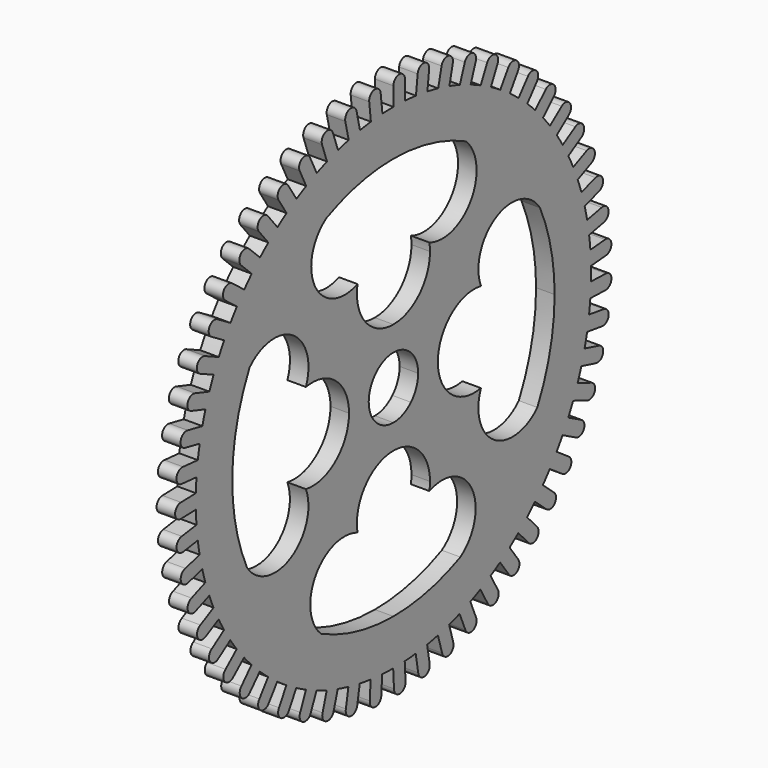
from build123d import *

# Parameters (mm, degrees)
F1_DEPTH = 3.81


with BuildPart() as f1:
    # F0 (on Right) → F1 (new body)
    with BuildSketch(Plane.YZ):
        with BuildLine():
            ThreePointArc((-2.476966, 8.310937), (-0.046927, 7.827572), (2.013162, 6.451065))
            Line((2.013162, 6.451065), (33.444058, 37.881962))
            ThreePointArc((33.444058, 37.881962), (32.69232, 38.618287), (31.925492, 39.338884))
            ThreePointArc((31.925492, 39.338884), (30.817036, 40.329537), (29.680066, 41.287331))
            ThreePointArc((29.680066, 41.287331), (28.572319, 42.167677), (27.440483, 43.016829))
            ThreePointArc((27.440483, 43.016829), (26.226326, 43.87467), (24.987587, 44.696617))
            ThreePointArc((24.987587, 44.696617), (23.786708, 45.44495), (22.565454, 46.159548))
            ThreePointArc((22.565454, 46.159548), (21.261424, 46.873394), (19.937065, 47.548777))
            ThreePointArc((19.937065, 47.548777), (18.658711, 48.155343), (17.363959, 48.72607))
            ThreePointArc((17.363959, 48.72607), (15.987057, 49.286616), (14.594343, 49.806631))
            ThreePointArc((14.594343, 49.806631), (13.255177, 50.263522), (11.903807, 50.682938))
            ThreePointArc((11.903807, 50.682938), (10.471983, 51.082874), (9.029069, 51.440743))
            ThreePointArc((9.029069, 51.440743), (7.646551, 51.742002), (6.25618, 52.00464))
            ThreePointArc((6.25618, 52.00464), (4.788099, 52.238754), (3.313797, 52.429809))
            ThreePointArc((3.313797, 52.429809), (1.90595, 52.57151), (0.494702, 52.673945))
            ThreePointArc((0.494702, 52.673945), (-0.990496, 52.739185), (-2.476966, 52.760937))
            Line((-2.476966, 52.760937), (-2.476966, 43.382824))
            ThreePointArc((-2.476966, 43.382824), (7.105622, 42.259159), (16.168311, 38.949129))
            ThreePointArc((16.168311, 38.949129), (17.479828, 27.801083), (6.765346, 24.454612))
            ThreePointArc((6.765346, 24.454612), (6.878725, 23.6185), (6.91662, 22.775587))
            ThreePointArc((6.91662, 22.775587), (4.165302, 16.133318), (-2.476966, 13.382))
            Line((-2.476966, 13.382), (-2.476966, 8.310937))
        make_face()
        with BuildLine():
            Line((38.94492, 1.960937), (48.323034, 1.960937))
            ThreePointArc((48.323034, 1.960937), (48.318353, 2.6505), (48.304313, 3.339935))
            ThreePointArc((48.304313, 3.339935), (48.242217, 4.825268), (48.136685, 6.308148))
            ThreePointArc((48.136685, 6.308148), (47.995978, 7.716094), (47.816113, 9.119576))
            ThreePointArc((47.816113, 9.119576), (47.585107, 10.588149), (47.311228, 12.049333))
            ThreePointArc((47.311228, 12.049333), (47.010944, 13.432063), (46.672266, 14.805893))
            ThreePointArc((46.672266, 14.805893), (46.275361, 16.238561), (45.836705, 17.659001))
            ThreePointArc((45.836705, 17.659001), (45.380759, 18.998488), (44.887684, 20.324757))
            ThreePointArc((44.887684, 20.324757), (44.330054, 21.702842), (43.732339, 23.06402))
            ThreePointArc((43.732339, 23.06402), (43.126675, 24.342802), (42.485631, 25.60422))
            ThreePointArc((42.485631, 25.60422), (41.774546, 26.909757), (41.025564, 28.193928))
            ThreePointArc((41.025564, 28.193928), (40.278078, 29.395335), (39.497422, 30.575457))
            ThreePointArc((39.497422, 30.575457), (38.642152, 31.791427), (37.751668, 32.98185))
            ThreePointArc((37.751668, 32.98185), (36.872104, 34.090218), (35.962012, 35.173659))
            ThreePointArc((35.962012, 35.173659), (34.973707, 36.28421), (33.953329, 37.365366))
            ThreePointArc((33.953329, 37.365366), (33.699616, 37.624573), (33.444058, 37.881962))
            Line((33.444058, 37.881962), (2.013162, 6.451065))
            ThreePointArc((2.013162, 6.451065), (3.389669, 4.390977), (3.873034, 1.960937))
            Line((3.873034, 1.960937), (8.944096, 1.960937))
            ThreePointArc((8.944096, 1.960937), (12.31824, 9.17244), (20.016708, 11.20325))
            ThreePointArc((20.016708, 11.20325), (23.983712, 22.102174), (35.20375, 19.163737))
            ThreePointArc((35.20375, 19.163737), (37.998823, 10.76339), (38.94492, 1.960937))
        make_face()
        with BuildLine():
            ThreePointArc((48.302317, 0.51029), (48.317854, 1.23554), (48.323034, 1.960937))
            Line((48.323034, 1.960937), (38.94492, 1.960937))
            ThreePointArc((38.94492, 1.960937), (37.821256, -7.621652), (34.511225, -16.684341))
            ThreePointArc((34.511225, -16.684341), (23.36318, -17.995857), (20.016708, -7.281375))
            ThreePointArc((20.016708, -7.281375), (12.31824, -5.250565), (8.944096, 1.960937))
            Line((8.944096, 1.960937), (3.873034, 1.960937))
            ThreePointArc((3.873034, 1.960937), (3.389669, -0.469103), (2.013162, -2.529191))
            Line((2.013162, -2.529191), (33.444058, -33.960087))
            ThreePointArc((33.444058, -33.960087), (33.674447, -33.728211), (33.903338, -33.494858))
            ThreePointArc((33.903338, -33.494858), (34.925241, -32.415143), (35.915112, -31.305988))
            ThreePointArc((35.915112, -31.305988), (36.826731, -30.223832), (37.707858, -29.116705))
            ThreePointArc((37.707858, -29.116705), (38.600021, -27.92754), (39.457006, -26.712778))
            ThreePointArc((39.457006, -26.712778), (40.239327, -25.533759), (40.988507, -24.333408))
            ThreePointArc((40.988507, -24.333408), (41.7393, -23.050295), (42.452226, -21.745763))
            ThreePointArc((42.452226, -21.745763), (43.09505, -20.485251), (43.702517, -19.207324))
            ThreePointArc((43.702517, -19.207324), (44.302153, -17.846991), (44.861726, -16.469694))
            ThreePointArc((44.861726, -16.469694), (45.356672, -15.144122), (45.814507, -13.805279))
            ThreePointArc((45.814507, -13.805279), (46.255168, -12.38546), (46.654094, -10.953354))
            ThreePointArc((46.654094, -10.953354), (46.994709, -9.580003), (47.296944, -8.197698))
            ThreePointArc((47.296944, -8.197698), (47.572885, -6.736902), (47.805963, -5.268657))
            ThreePointArc((47.805963, -5.268657), (47.987808, -3.86543), (48.130501, -2.457683))
            ThreePointArc((48.130501, -2.457683), (48.238125, -0.974954), (48.302317, 0.51029))
        make_face()
        with BuildLine():
            Line((33.444058, -33.960087), (2.013162, -2.529191))
            ThreePointArc((2.013162, -2.529191), (-0.046927, -3.905698), (-2.476966, -4.389063))
            Line((-2.476966, -4.389063), (-2.476966, -9.460126))
            ThreePointArc((-2.476966, -9.460126), (4.165302, -12.211444), (6.91662, -18.853712))
            ThreePointArc((6.91662, -18.853712), (6.878725, -19.696625), (6.765346, -20.532738))
            ThreePointArc((6.765346, -20.532738), (17.664271, -24.499741), (14.725833, -35.719779))
            ThreePointArc((14.725833, -35.719779), (6.325486, -38.514852), (-2.476966, -39.46095))
            Line((-2.476966, -39.46095), (-2.476966, -48.839063))
            ThreePointArc((-2.476966, -48.839063), (-1.026319, -48.818346), (0.423145, -48.756213))
            ThreePointArc((0.423145, -48.756213), (1.834536, -48.655769), (3.242581, -48.516055))
            ThreePointArc((3.242581, -48.516055), (4.717152, -48.32708), (6.185561, -48.095038))
            ThreePointArc((6.185561, -48.095038), (7.576302, -47.834362), (8.959243, -47.535054))
            ThreePointArc((8.959243, -47.535054), (10.40266, -47.179222), (11.835047, -46.781306))
            ThreePointArc((11.835047, -46.781306), (13.187008, -46.363796), (14.526817, -45.908796))
            ThreePointArc((14.526817, -45.908796), (15.920264, -45.390746), (17.297955, -44.832144))
            ThreePointArc((17.297955, -44.832144), (18.593511, -44.263245), (19.87272, -43.658483))
            ThreePointArc((19.87272, -43.658483), (21.198031, -42.984969), (22.503066, -42.272963))
            ThreePointArc((22.503066, -42.272963), (23.725328, -41.56009), (24.927261, -40.813451))
            ThreePointArc((24.927261, -40.813451), (26.167158, -39.993254), (27.382524, -39.137126))
            ThreePointArc((27.382524, -39.137126), (28.515557, -38.289572), (29.624546, -37.41079))
            ThreePointArc((29.624546, -37.41079), (30.762866, -36.454601), (31.872718, -35.465513))
            ThreePointArc((31.872718, -35.465513), (32.66645, -34.721215), (33.444058, -33.960087))
        make_face()
        with BuildLine():
            Line((-2.476966, -9.460126), (-2.476966, -4.389063))
            ThreePointArc((-2.476966, -4.389063), (-4.907006, -3.905698), (-6.967095, -2.529191))
            Line((-6.967095, -2.529191), (-38.397991, -33.960087))
            ThreePointArc((-38.397991, -33.960087), (-37.620383, -34.721215), (-36.826651, -35.465513))
            ThreePointArc((-36.826651, -35.465513), (-35.770969, -36.407662), (-34.689455, -37.320045))
            ThreePointArc((-34.689455, -37.320045), (-33.526252, -38.245802), (-32.336457, -39.137126))
            ThreePointArc((-32.336457, -39.137126), (-31.180259, -39.952796), (-30.001791, -40.735948))
            ThreePointArc((-30.001791, -40.735948), (-28.740641, -41.523076), (-27.456999, -42.272963))
            ThreePointArc((-27.456999, -42.272963), (-26.215357, -42.95152), (-24.955299, -43.595232))
            ThreePointArc((-24.955299, -43.595232), (-23.612644, -44.233469), (-22.251888, -44.832144))
            ThreePointArc((-22.251888, -44.832144), (-20.94099, -45.364741), (-19.615767, -45.860622))
            ThreePointArc((-19.615767, -45.860622), (-18.20911, -46.341647), (-16.78898, -46.781306))
            ThreePointArc((-16.78898, -46.781306), (-15.425916, -47.161), (-14.052805, -47.502584))
            ThreePointArc((-14.052805, -47.502584), (-12.600484, -47.820127), (-11.139494, -48.095038))
            ThreePointArc((-11.139494, -48.095038), (-9.742032, -48.316879), (-8.338934, -48.499714))
            ThreePointArc((-8.338934, -48.499714), (-6.859883, -48.649635), (-5.377078, -48.756213))
            ThreePointArc((-5.377078, -48.756213), (-3.963437, -48.81731), (-2.548644, -48.839012))
            ThreePointArc((-2.548644, -48.839012), (-2.512805, -48.83905), (-2.476966, -48.839063))
            Line((-2.476966, -48.839063), (-2.476966, -39.46095))
            ThreePointArc((-2.476966, -39.46095), (-12.059555, -38.337285), (-21.122244, -35.027254))
            ThreePointArc((-21.122244, -35.027254), (-22.433761, -23.879209), (-11.719279, -20.532738))
            ThreePointArc((-11.719279, -20.532738), (-9.688469, -12.834269), (-2.476966, -9.460126))
        make_face()
        with BuildLine():
            ThreePointArc((-6.967095, -2.529191), (-8.343602, -0.469103), (-8.826966, 1.960937))
            Line((-8.826966, 1.960937), (-13.898029, 1.960937))
            ThreePointArc((-13.898029, 1.960937), (-17.272173, -5.250565), (-24.970641, -7.281375))
            ThreePointArc((-24.970641, -7.281375), (-28.937645, -18.1803), (-40.157683, -15.241862))
            ThreePointArc((-40.157683, -15.241862), (-42.952756, -6.841515), (-43.898853, 1.960937))
            Line((-43.898853, 1.960937), (-53.276966, 1.960937))
            ThreePointArc((-53.276966, 1.960937), (-53.271787, 1.23554), (-53.25625, 0.51029))
            ThreePointArc((-53.25625, 0.51029), (-53.19615, -0.903393), (-53.096702, -2.314855))
            ThreePointArc((-53.096702, -2.314855), (-52.949911, -3.79422), (-52.759896, -5.268657))
            ThreePointArc((-52.759896, -5.268657), (-52.53904, -6.666274), (-52.279345, -8.057199))
            ThreePointArc((-52.279345, -8.057199), (-51.964877, -9.510188), (-51.608027, -10.953354))
            ThreePointArc((-51.608027, -10.953354), (-51.229294, -12.316686), (-50.812739, -13.668941))
            ThreePointArc((-50.812739, -13.668941), (-50.334692, -15.076613), (-49.815659, -16.469694))
            ThreePointArc((-49.815659, -16.469694), (-49.283987, -17.780967), (-48.716002, -19.076925))
            ThreePointArc((-48.716002, -19.076925), (-48.080608, -20.420928), (-47.406159, -21.745763))
            ThreePointArc((-47.406159, -21.745763), (-46.728479, -22.987883), (-46.016468, -24.210647))
            ThreePointArc((-46.016468, -24.210647), (-45.232011, -25.47346), (-44.410939, -26.712778))
            ThreePointArc((-44.410939, -26.712778), (-43.596085, -27.869552), (-42.74933, -29.003183))
            ThreePointArc((-42.74933, -29.003183), (-41.826037, -30.168343), (-40.869045, -31.305988))
            ThreePointArc((-40.869045, -31.305988), (-39.92764, -32.362335), (-38.95718, -33.392054))
            ThreePointArc((-38.95718, -33.392054), (-38.6787, -33.677167), (-38.397991, -33.960087))
            Line((-38.397991, -33.960087), (-6.967095, -2.529191))
        make_face()
        with BuildLine():
            ThreePointArc((-8.826966, 1.960937), (-8.343602, 4.390977), (-6.967095, 6.451065))
            Line((-6.967095, 6.451065), (-38.397991, 37.881962))
            ThreePointArc((-38.397991, 37.881962), (-38.653549, 37.624573), (-38.907262, 37.365366))
            ThreePointArc((-38.907262, 37.365366), (-39.879174, 36.337017), (-40.822068, 35.281999))
            ThreePointArc((-40.822068, 35.281999), (-41.780664, 34.145706), (-42.705601, 32.98185))
            ThreePointArc((-42.705601, 32.98185), (-43.553954, 31.849415), (-44.370439, 30.693792))
            ThreePointArc((-44.370439, 30.693792), (-45.19326, 29.455633), (-45.979497, 28.193928))
            ThreePointArc((-45.979497, 28.193928), (-46.693233, 26.97217), (-47.372665, 25.731007))
            ThreePointArc((-47.372665, 25.731007), (-48.048983, 24.407125), (-48.686272, 23.06402))
            ThreePointArc((-48.686272, 23.06402), (-49.256086, 21.768866), (-49.789607, 20.458344))
            ThreePointArc((-49.789607, 20.458344), (-50.310605, 19.065997), (-50.790638, 17.659001))
            ThreePointArc((-50.790638, 17.659001), (-51.209101, 16.307334), (-51.589756, 14.944538))
            ThreePointArc((-51.589756, 14.944538), (-51.948642, 13.501877), (-52.265161, 12.049333))
            ThreePointArc((-52.265161, 12.049333), (-52.526818, 10.658776), (-52.749645, 9.261471))
            ThreePointArc((-52.749645, 9.261471), (-52.941741, 7.787304), (-53.090618, 6.308148))
            ThreePointArc((-53.090618, 6.308148), (-53.192058, 4.896828), (-53.254153, 3.483231))
            ThreePointArc((-53.254153, 3.483231), (-53.271263, 2.72217), (-53.276966, 1.960937))
            Line((-53.276966, 1.960937), (-43.898853, 1.960937))
            ThreePointArc((-43.898853, 1.960937), (-42.775189, 11.543526), (-39.465158, 20.606215))
            ThreePointArc((-39.465158, 20.606215), (-28.317113, 21.917732), (-24.970641, 11.20325))
            ThreePointArc((-24.970641, 11.20325), (-17.272173, 9.17244), (-13.898029, 1.960937))
            Line((-13.898029, 1.960937), (-8.826966, 1.960937))
        make_face()
        with BuildLine():
            ThreePointArc((-6.967095, 6.451065), (-4.907006, 7.827572), (-2.476966, 8.310937))
            Line((-2.476966, 8.310937), (-2.476966, 13.382))
            ThreePointArc((-2.476966, 13.382), (-9.688469, 16.756143), (-11.719279, 24.454612))
            ThreePointArc((-11.719279, 24.454612), (-22.618204, 28.421615), (-19.679766, 39.641654))
            ThreePointArc((-19.679766, 39.641654), (-11.279419, 42.436727), (-2.476966, 43.382824))
            Line((-2.476966, 43.382824), (-2.476966, 52.760937))
            ThreePointArc((-2.476966, 52.760937), (-3.89179, 52.741231), (-5.305515, 52.682129))
            ThreePointArc((-5.305515, 52.682129), (-6.788469, 52.577643), (-8.26773, 52.429809))
            ThreePointArc((-8.26773, 52.429809), (-9.671085, 52.248954), (-11.068858, 52.029085))
            ThreePointArc((-11.068858, 52.029085), (-12.530235, 51.756236), (-13.983002, 51.440743))
            ThreePointArc((-13.983002, 51.440743), (-15.356593, 51.101096), (-16.720192, 50.723326))
            ThreePointArc((-16.720192, 50.723326), (-18.140941, 50.285671), (-19.548276, 49.806631))
            ThreePointArc((-19.548276, 49.806631), (-20.874197, 49.312621), (-22.185845, 48.781874))
            ThreePointArc((-22.185845, 48.781874), (-23.547444, 48.185119), (-24.890998, 47.548777))
            ThreePointArc((-24.890998, 47.548777), (-26.151964, 46.906844), (-27.394562, 46.23004))
            ThreePointArc((-27.394562, 46.23004), (-28.679261, 45.481964), (-29.94152, 44.696617))
            ThreePointArc((-29.94152, 44.696617), (-31.121091, 43.915128), (-32.27844, 43.10109))
            ThreePointArc((-32.27844, 43.10109), (-33.46949, 42.211446), (-34.633999, 41.287331))
            ThreePointArc((-34.633999, 41.287331), (-35.716799, 40.376475), (-36.77381, 39.435816))
            ThreePointArc((-36.77381, 39.435816), (-37.594496, 38.667873), (-38.397991, 37.881962))
            Line((-38.397991, 37.881962), (-6.967095, 6.451065))
        make_face()
        with BuildLine():
            ThreePointArc((-42.705601, 32.98185), (-41.780664, 34.145706), (-40.822068, 35.281999))
            Line((-40.822068, 35.281999), (-43.839216, 37.608568))
            ThreePointArc((-43.839216, 37.608568), (-45.965217, 37.428232), (-45.722748, 35.308418))
            Line((-45.722748, 35.308418), (-42.705601, 32.98185))
        make_face()
        with BuildLine():
            ThreePointArc((-45.979497, 28.193928), (-45.19326, 29.455633), (-44.370439, 30.693792))
            Line((-44.370439, 30.693792), (-47.633129, 32.661266))
            ThreePointArc((-47.633129, 32.661266), (-49.724716, 32.239759), (-49.242187, 30.161403))
            Line((-49.242187, 30.161403), (-45.979497, 28.193928))
        make_face()
        with BuildLine():
            ThreePointArc((-48.686272, 23.06402), (-48.048983, 24.407125), (-47.372665, 25.731007))
            Line((-47.372665, 25.731007), (-50.838363, 27.313739))
            ThreePointArc((-50.838363, 27.313739), (-52.868268, 26.656557), (-52.15197, 24.646751))
            Line((-52.15197, 24.646751), (-48.686272, 23.06402))
        make_face()
        with BuildLine():
            ThreePointArc((-50.790638, 17.659001), (-50.310605, 19.065997), (-49.789607, 20.458344))
            Line((-49.789607, 20.458344), (-53.413132, 21.635698))
            ThreePointArc((-53.413132, 21.635698), (-55.354892, 20.751409), (-54.414163, 18.836355))
            Line((-54.414163, 18.836355), (-50.790638, 17.659001))
        make_face()
        with BuildLine():
            Line((-55.999275, 12.805963), (-52.265161, 12.049333))
            ThreePointArc((-52.265161, 12.049333), (-51.948642, 13.501877), (-51.589756, 14.944538))
            Line((-51.589756, 14.944538), (-55.323871, 15.701168))
            ThreePointArc((-55.323871, 15.701168), (-57.152172, 14.601298), (-55.999275, 12.805963))
        make_face()
        with BuildLine():
            Line((-56.886642, 6.634188), (-53.090618, 6.308148))
            ThreePointArc((-53.090618, 6.308148), (-52.941741, 7.787304), (-52.749645, 9.261471))
            Line((-52.749645, 9.261471), (-56.545669, 9.587512))
            ThreePointArc((-56.545669, 9.587512), (-58.236678, 8.286401), (-56.886642, 6.634188))
        make_face()
        with BuildLine():
            ThreePointArc((-53.25625, 0.51029), (-53.271787, 1.23554), (-53.276966, 1.960937))
            ThreePointArc((-53.276966, 1.960937), (-53.271263, 2.72217), (-53.254153, 3.483231))
            Line((-53.254153, 3.483231), (-57.062599, 3.374433))
            ThreePointArc((-57.062599, 3.374433), (-58.594269, 1.889042), (-57.064696, 0.401491))
            Line((-57.064696, 0.401491), (-53.25625, 0.51029))
        make_face()
        with BuildLine():
            ThreePointArc((-52.759896, -5.268657), (-52.949911, -3.79422), (-53.096702, -2.314855))
            Line((-53.096702, -2.314855), (-56.867922, -2.857074))
            ThreePointArc((-56.867922, -2.857074), (-58.220287, -4.50738), (-56.531115, -5.810876))
            Line((-56.531115, -5.810876), (-52.759896, -5.268657))
        make_face()
        with BuildLine():
            ThreePointArc((-51.608027, -10.953354), (-51.964877, -9.510188), (-52.279345, -8.057199))
            Line((-52.279345, -8.057199), (-55.964175, -9.025771))
            ThreePointArc((-55.964175, -9.025771), (-57.119604, -10.819478), (-55.292856, -11.921926))
            Line((-55.292856, -11.921926), (-51.608027, -10.953354))
        make_face()
        with BuildLine():
            Line((-53.366061, -17.851992), (-49.815659, -16.469694))
            ThreePointArc((-49.815659, -16.469694), (-50.334692, -15.076613), (-50.812739, -13.668941))
            Line((-50.812739, -13.668941), (-54.363141, -15.051239))
            ThreePointArc((-54.363141, -15.051239), (-55.306572, -16.964963), (-53.366061, -17.851992))
        make_face()
        with BuildLine():
            Line((-50.775849, -23.523765), (-47.406159, -21.745763))
            ThreePointArc((-47.406159, -21.745763), (-48.080608, -20.420928), (-48.716002, -19.076925))
            Line((-48.716002, -19.076925), (-52.085691, -20.854927))
            ThreePointArc((-52.085691, -20.854927), (-52.804824, -22.86372), (-50.775849, -23.523765))
        make_face()
        with BuildLine():
            Line((-47.555987, -28.863307), (-44.410939, -26.712778))
            ThreePointArc((-44.410939, -26.712778), (-45.232011, -25.47346), (-46.016468, -24.210647))
            Line((-46.016468, -24.210647), (-49.161516, -26.361176))
            ThreePointArc((-49.161516, -26.361176), (-49.646976, -28.43885), (-47.555987, -28.863307))
        make_face()
        with BuildLine():
            Line((-43.748451, -33.801007), (-40.869045, -31.305988))
            ThreePointArc((-40.869045, -31.305988), (-41.826037, -30.168343), (-42.74933, -29.003183))
            Line((-42.74933, -29.003183), (-45.628736, -31.498202))
            ThreePointArc((-45.628736, -31.498202), (-45.874195, -33.617672), (-43.748451, -33.801007))
        make_face()
        with BuildLine():
            ThreePointArc((-36.826651, -35.465513), (-37.620383, -34.721215), (-38.397991, -33.960087))
            ThreePointArc((-38.397991, -33.960087), (-38.6787, -33.677167), (-38.95718, -33.392054))
            Line((-38.95718, -33.392054), (-41.533407, -36.199038))
            ThreePointArc((-41.533407, -36.199038), (-41.535665, -38.332672), (-39.402878, -38.272496))
            Line((-39.402878, -38.272496), (-36.826651, -35.465513))
        make_face()
        with BuildLine():
            ThreePointArc((-32.336457, -39.137126), (-33.526252, -38.245802), (-34.689455, -37.320045))
            Line((-34.689455, -37.320045), (-36.928917, -40.4024))
            ThreePointArc((-36.928917, -40.4024), (-36.687944, -42.522384), (-34.575919, -42.219481))
            Line((-34.575919, -42.219481), (-32.336457, -39.137126))
        make_face()
        with BuildLine():
            ThreePointArc((-27.456999, -42.272963), (-28.740641, -41.523076), (-30.001791, -40.735948))
            Line((-30.001791, -40.735948), (-31.875294, -44.053491))
            ThreePointArc((-31.875294, -44.053491), (-31.394232, -46.132187), (-29.330502, -45.590506))
            Line((-29.330502, -45.590506), (-27.456999, -42.272963))
        make_face()
        with BuildLine():
            ThreePointArc((-22.251888, -44.832144), (-23.612644, -44.233469), (-24.955299, -43.595232))
            Line((-24.955299, -43.595232), (-26.438418, -47.104713))
            ThreePointArc((-26.438418, -47.104713), (-25.723538, -49.115023), (-23.735007, -48.341625))
            Line((-23.735007, -48.341625), (-22.251888, -44.832144))
        make_face()
        with BuildLine():
            ThreePointArc((-16.78898, -46.781306), (-18.20911, -46.341647), (-19.615767, -45.860622))
            Line((-19.615767, -45.860622), (-20.689168, -49.51629))
            ThreePointArc((-20.689168, -49.51629), (-19.74979, -51.432006), (-17.862381, -50.436974))
            Line((-17.862381, -50.436974), (-16.78898, -46.781306))
        make_face()
        with BuildLine():
            Line((-11.789183, -51.849236), (-11.139494, -48.095038))
            ThreePointArc((-11.139494, -48.095038), (-12.600484, -47.820127), (-14.052805, -47.502584))
            Line((-14.052805, -47.502584), (-14.702495, -51.256782))
            ThreePointArc((-14.702495, -51.256782), (-13.550864, -53.052931), (-11.789183, -51.849236))
        make_face()
        with BuildLine():
            Line((-5.594586, -52.56), (-5.377078, -48.756213))
            ThreePointArc((-5.377078, -48.756213), (-6.859883, -48.649635), (-8.338934, -48.499714))
            Line((-8.338934, -48.499714), (-8.556443, -52.3035))
            ThreePointArc((-8.556443, -52.3035), (-7.207573, -53.956665), (-5.594586, -52.56))
        make_face()
        with BuildLine():
            ThreePointArc((0.423145, -48.756213), (-1.026319, -48.818346), (-2.476966, -48.839063))
            ThreePointArc((-2.476966, -48.839063), (-2.512805, -48.83905), (-2.548644, -48.839012))
            Line((-2.548644, -48.839012), (-2.331135, -52.642798))
            ThreePointArc((-2.331135, -52.642798), (-0.802612, -54.131428), (0.640653, -52.56))
            Line((0.640653, -52.56), (0.423145, -48.756213))
        make_face()
        with BuildLine():
            ThreePointArc((6.185561, -48.095038), (4.717152, -48.32708), (3.242581, -48.516055))
            Line((3.242581, -48.516055), (3.892271, -52.270253))
            ThreePointArc((3.892271, -52.270253), (5.580522, -53.574941), (6.83525, -51.849236))
            Line((6.83525, -51.849236), (6.185561, -48.095038))
        make_face()
        with BuildLine():
            ThreePointArc((11.835047, -46.781306), (10.40266, -47.179222), (8.959243, -47.535054))
            Line((8.959243, -47.535054), (10.032644, -51.190722))
            ThreePointArc((10.032644, -51.190722), (11.858614, -52.294459), (12.908448, -50.436974))
            Line((12.908448, -50.436974), (11.835047, -46.781306))
        make_face()
        with BuildLine():
            Line((18.781074, -48.341625), (17.297955, -44.832144))
            ThreePointArc((17.297955, -44.832144), (15.920264, -45.390746), (14.526817, -45.908796))
            Line((14.526817, -45.908796), (16.009936, -49.418277))
            ThreePointArc((16.009936, -49.418277), (17.94982, -50.306675), (18.781074, -48.341625))
        make_face()
        with BuildLine():
            Line((24.376569, -45.590506), (22.503066, -42.272963))
            ThreePointArc((22.503066, -42.272963), (21.198031, -42.984969), (19.87272, -43.658483))
            Line((19.87272, -43.658483), (21.746223, -46.976026))
            ThreePointArc((21.746223, -46.976026), (23.774732, -47.637502), (24.376569, -45.590506))
        make_face()
        with BuildLine():
            Line((29.621986, -42.219481), (27.382524, -39.137126))
            ThreePointArc((27.382524, -39.137126), (26.167158, -39.993254), (24.927261, -40.813451))
            Line((24.927261, -40.813451), (27.166723, -43.895806))
            ThreePointArc((27.166723, -43.895806), (29.257412, -44.321738), (29.621986, -42.219481))
        make_face()
        with BuildLine():
            Line((34.448945, -38.272496), (31.872718, -35.465513))
            ThreePointArc((31.872718, -35.465513), (30.762866, -36.454601), (29.624546, -37.41079))
            Line((29.624546, -37.41079), (32.200772, -40.217774))
            ThreePointArc((32.200772, -40.217774), (34.326387, -40.402609), (34.448945, -38.272496))
        make_face()
        with BuildLine():
            ThreePointArc((35.915112, -31.305988), (34.925241, -32.415143), (33.903338, -33.494858))
            Line((33.903338, -33.494858), (36.782744, -35.989877))
            ThreePointArc((36.782744, -35.989877), (38.915573, -35.931206), (38.794518, -33.801007))
            Line((38.794518, -33.801007), (35.915112, -31.305988))
        make_face()
        with BuildLine():
            ThreePointArc((39.457006, -26.712778), (38.600021, -27.92754), (37.707858, -29.116705))
            Line((37.707858, -29.116705), (40.852906, -31.267234))
            ThreePointArc((40.852906, -31.267234), (42.965144, -30.965821), (42.602054, -28.863307))
            Line((42.602054, -28.863307), (39.457006, -26.712778))
        make_face()
        with BuildLine():
            Line((45.821916, -23.523765), (42.452226, -21.745763))
            ThreePointArc((42.452226, -21.745763), (41.7393, -23.050295), (40.988507, -24.333408))
            Line((40.988507, -24.333408), (44.358196, -26.111411))
            ThreePointArc((44.358196, -26.111411), (46.422308, -25.571186), (45.821916, -23.523765))
        make_face()
        with BuildLine():
            Line((48.412128, -17.851992), (44.861726, -16.469694))
            ThreePointArc((44.861726, -16.469694), (44.302153, -17.846991), (43.702517, -19.207324))
            Line((43.702517, -19.207324), (47.252919, -20.589622))
            ThreePointArc((47.252919, -20.589622), (49.241995, -19.817627), (48.412128, -17.851992))
        make_face()
        with BuildLine():
            Line((50.338923, -11.921926), (46.654094, -10.953354))
            ThreePointArc((46.654094, -10.953354), (46.255168, -12.38546), (45.814507, -13.805279))
            Line((45.814507, -13.805279), (49.499336, -14.773851))
            ThreePointArc((49.499336, -14.773851), (51.387447, -13.780151), (50.338923, -11.921926))
        make_face()
        with BuildLine():
            Line((51.577182, -5.810876), (47.805963, -5.268657))
            ThreePointArc((47.805963, -5.268657), (47.572885, -6.736902), (47.296944, -8.197698))
            Line((47.296944, -8.197698), (51.068163, -8.739917))
            ThreePointArc((51.068163, -8.739917), (52.830693, -7.537466), (51.577182, -5.810876))
        make_face()
        with BuildLine():
            Line((52.110763, 0.401491), (48.302317, 0.51029))
            ThreePointArc((48.302317, 0.51029), (48.238125, -0.974954), (48.130501, -2.457683))
            Line((48.130501, -2.457683), (51.938948, -2.566482))
            ThreePointArc((51.938948, -2.566482), (53.552919, -1.170955), (52.110763, 0.401491))
        make_face()
        with BuildLine():
            ThreePointArc((48.136685, 6.308148), (48.242217, 4.825268), (48.304313, 3.339935))
            Line((48.304313, 3.339935), (52.100337, 3.665976))
            ThreePointArc((52.100337, 3.665976), (53.544711, 5.236386), (51.932709, 6.634188))
            Line((51.932709, 6.634188), (48.136685, 6.308148))
        make_face()
        with BuildLine():
            ThreePointArc((47.311228, 12.049333), (47.585107, 10.588149), (47.816113, 9.119576))
            Line((47.816113, 9.119576), (51.550228, 9.876206))
            ThreePointArc((51.550228, 9.876206), (52.806173, 11.601025), (51.045342, 12.805963))
            Line((51.045342, 12.805963), (47.311228, 12.049333))
        make_face()
        with BuildLine():
            ThreePointArc((45.836705, 17.659001), (46.275361, 16.238561), (46.672266, 14.805893))
            Line((46.672266, 14.805893), (50.295792, 15.983248))
            ThreePointArc((50.295792, 15.983248), (51.346936, 17.839992), (49.46023, 18.836355))
            Line((49.46023, 18.836355), (45.836705, 17.659001))
        make_face()
        with BuildLine():
            ThreePointArc((43.732339, 23.06402), (44.330054, 21.702842), (44.887684, 20.324757))
            Line((44.887684, 20.324757), (48.353382, 21.907488))
            ThreePointArc((48.353382, 21.907488), (49.186022, 23.87195), (47.198037, 24.646751))
            Line((47.198037, 24.646751), (43.732339, 23.06402))
        make_face()
        with BuildLine():
            ThreePointArc((41.025564, 28.193928), (41.774546, 26.909757), (42.485631, 25.60422))
            Line((42.485631, 25.60422), (45.748321, 27.571694))
            ThreePointArc((45.748321, 27.571694), (46.351602, 29.618265), (44.288254, 30.161403))
            Line((44.288254, 30.161403), (41.025564, 28.193928))
        make_face()
        with BuildLine():
            Line((40.768815, 35.308418), (37.751668, 32.98185))
            ThreePointArc((37.751668, 32.98185), (38.642152, 31.791427), (39.497422, 30.575457))
            Line((39.497422, 30.575457), (42.514569, 32.902025))
            ThreePointArc((42.514569, 32.902025), (42.880626, 35.004025), (40.768815, 35.308418))
        make_face()
        with BuildLine():
            Line((36.685601, 40.020698), (33.953329, 37.365366))
            ThreePointArc((33.953329, 37.365366), (34.973707, 36.28421), (35.962012, 35.173659))
            Line((35.962012, 35.173659), (38.694284, 37.828992))
            ThreePointArc((38.694284, 37.828992), (38.818345, 39.959017), (36.685601, 40.020698))
        make_face()
        with BuildLine():
            ThreePointArc((29.680066, 41.287331), (30.817036, 40.329537), (31.925492, 39.338884))
            Line((31.925492, 39.338884), (34.337269, 42.288363))
            ThreePointArc((34.337269, 42.288363), (34.217717, 44.418647), (32.091844, 44.236811))
            Line((32.091844, 44.236811), (29.680066, 41.287331))
        make_face()
        with BuildLine():
            ThreePointArc((24.987587, 44.696617), (26.226326, 43.87467), (27.440483, 43.016829))
            Line((27.440483, 43.016829), (29.500324, 46.222005))
            ThreePointArc((29.500324, 46.222005), (29.138717, 48.324775), (27.047429, 47.901793))
            Line((27.047429, 47.901793), (24.987587, 44.696617))
        make_face()
        with BuildLine():
            ThreePointArc((19.937065, 47.548777), (21.261424, 46.873394), (22.565454, 46.159548))
            Line((22.565454, 46.159548), (24.246506, 49.578636))
            ThreePointArc((24.246506, 49.578636), (23.647558, 51.626479), (21.618118, 50.967865))
            Line((21.618118, 50.967865), (19.937065, 47.548777))
        make_face()
        with BuildLine():
            ThreePointArc((14.594343, 49.806631), (15.987057, 49.286616), (17.363959, 48.72607))
            Line((17.363959, 48.72607), (18.644307, 52.314497))
            ThreePointArc((18.644307, 52.314497), (17.815827, 54.280718), (15.874691, 53.395058))
            Line((15.874691, 53.395058), (14.594343, 49.806631))
        make_face()
        with BuildLine():
            Line((9.892022, 55.151728), (9.029069, 51.440743))
            ThreePointArc((9.029069, 51.440743), (10.471983, 51.082874), (11.903807, 50.682938))
            Line((11.903807, 50.682938), (12.76676, 54.393923))
            ThreePointArc((12.76676, 54.393923), (11.719547, 56.252887), (9.892022, 55.151728))
        make_face()
        with BuildLine():
            Line((3.748104, 56.214975), (3.313797, 52.429809))
            ThreePointArc((3.313797, 52.429809), (4.788099, 52.238754), (6.25618, 52.00464))
            Line((6.25618, 52.00464), (6.690487, 55.789805))
            ThreePointArc((6.690487, 55.789805), (5.438195, 57.517279), (3.748104, 56.214975))
        make_face()
        with BuildLine():
            Line((-2.476966, 56.570937), (-2.476966, 52.760937))
            ThreePointArc((-2.476966, 52.760937), (-0.990496, 52.739185), (0.494702, 52.673945))
            Line((0.494702, 52.673945), (0.494702, 56.483945))
            ThreePointArc((0.494702, 56.483945), (-0.946344, 58.057408), (-2.476966, 56.570937))
        make_face()
        with BuildLine():
            ThreePointArc((-8.26773, 52.429809), (-6.788469, 52.577643), (-5.305515, 52.682129))
            Line((-5.305515, 52.682129), (-5.739822, 56.467295))
            ThreePointArc((-5.739822, 56.467295), (-7.350837, 57.866234), (-8.702037, 56.214975))
            Line((-8.702037, 56.214975), (-8.26773, 52.429809))
        make_face()
        with BuildLine():
            ThreePointArc((-13.983002, 51.440743), (-12.530235, 51.756236), (-11.068858, 52.029085))
            Line((-11.068858, 52.029085), (-11.931811, 55.74007))
            ThreePointArc((-11.931811, 55.74007), (-13.691791, 56.94625), (-14.845955, 55.151728))
            Line((-14.845955, 55.151728), (-13.983002, 51.440743))
        make_face()
        with BuildLine():
            Line((-20.828624, 53.395058), (-19.548276, 49.806631))
            ThreePointArc((-19.548276, 49.806631), (-18.140941, 50.285671), (-16.720192, 50.723326))
            Line((-16.720192, 50.723326), (-18.000541, 54.311753))
            ThreePointArc((-18.000541, 54.311753), (-19.886543, 55.309447), (-20.828624, 53.395058))
        make_face()
        with BuildLine():
            Line((-26.572051, 50.967865), (-24.890998, 47.548777))
            ThreePointArc((-24.890998, 47.548777), (-23.547444, 48.185119), (-22.185845, 48.781874))
            Line((-22.185845, 48.781874), (-23.866897, 52.200962))
            ThreePointArc((-23.866897, 52.200962), (-25.854335, 52.977165), (-26.572051, 50.967865))
        make_face()
        with BuildLine():
            Line((-32.001362, 47.901793), (-29.94152, 44.696617))
            ThreePointArc((-29.94152, 44.696617), (-28.679261, 45.481964), (-27.394562, 46.23004))
            Line((-27.394562, 46.23004), (-29.454403, 49.435216))
            ThreePointArc((-29.454403, 49.435216), (-31.517367, 49.979809), (-32.001362, 47.901793))
        make_face()
        with BuildLine():
            Line((-37.045777, 44.236811), (-34.633999, 41.287331))
            ThreePointArc((-34.633999, 41.287331), (-33.46949, 42.211446), (-32.27844, 43.10109))
            Line((-32.27844, 43.10109), (-34.690217, 46.05057))
            ThreePointArc((-34.690217, 46.05057), (-36.801813, 46.356453), (-37.045777, 44.236811))
        make_face()
        with BuildLine():
            ThreePointArc((-38.907262, 37.365366), (-38.653549, 37.624573), (-38.397991, 37.881962))
            ThreePointArc((-38.397991, 37.881962), (-37.594496, 38.667873), (-36.77381, 39.435816))
            Line((-36.77381, 39.435816), (-39.506082, 42.091148))
            ThreePointArc((-39.506082, 42.091148), (-41.638782, 42.154333), (-41.639534, 40.020698))
            Line((-41.639534, 40.020698), (-38.907262, 37.365366))
        make_face()
    extrude(amount=F1_DEPTH)


solid = f1.part
